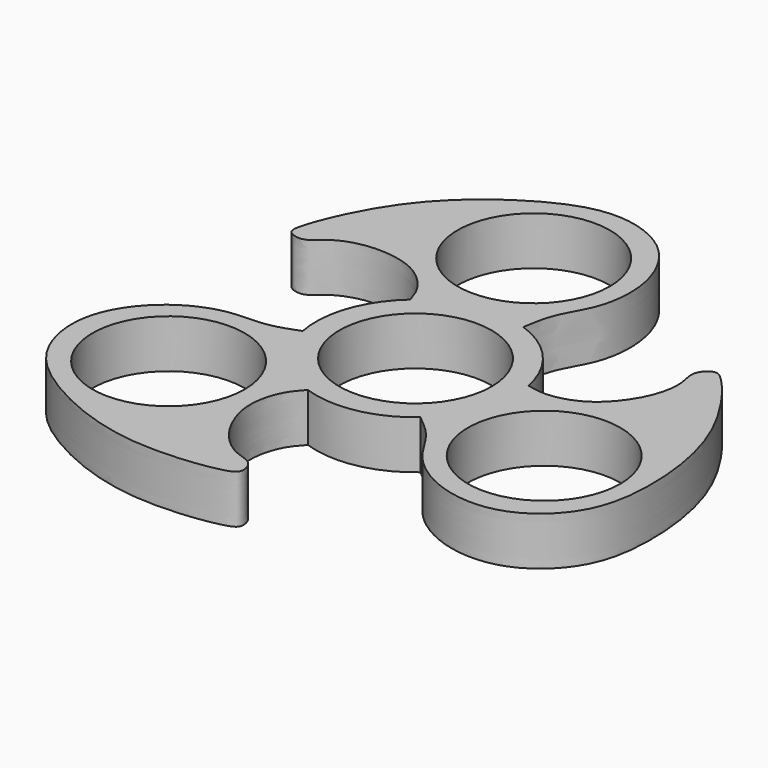
from build123d import *

# Parameters (mm, degrees)
F0_R     = 11
F1_DEPTH = 7
F2_COUNT = 3


with BuildPart() as f1:
    # F0 (on Top) → F1 (new body)
    with BuildSketch(Plane.XY):
        with BuildLine():
            ThreePointArc((9.4140508604, -10.8749026982), (13.0823502456, -5.9782919259), (14.3835969875, 0))
            ThreePointArc((14.3835969875, 0), (14.3174201784, 1.3781660758), (14.1194986908, 2.7436506738))
            ThreePointArc((14.1194986908, 2.7436506738), (-13.594971041, 4.6972997235), (9.4140508604, -10.8749026982))
        make_face()
        Circle(F0_R, mode=Mode.SUBTRACT)
        with BuildLine():
            ThreePointArc((14.1194986908, 2.7436506738), (14.3174201784, 1.3781660758), (14.3835969875, 0))
            ThreePointArc((14.3835969875, 0), (13.0823502456, -5.9782919259), (9.4140508604, -10.8749026982))
            add(Edge.make_bspline(
                [(14.1194986908, 2.7436506738), (15.0484566992, 2.5457409858), (17.114573098, 2.1009446406), (21.6734644854, 3.3334805226), (24.8661399681, 6.6023260632), (26.8244992271, 10.1541511096), (27.4599044336, 14.0580551407), (26.3268108082, 16.8833843476), (28.3128644981, 18.8423275341), (30.3298716366, 17.7771183516), (38.5113185361, 7.2062287012), (40.6454224781, -7.2370610169), (38.9577533171, -17.5716720794), (31.2026029382, -24.1190616788), (21.8633834336, -23.4625176495), (15.431683765, -18.9362512131), (13.0822714541, -13.8555959558), (10.6013857244, -11.8388336854), (9.4140508604, -10.8749026982)],
                knots=[0, 0, 0, 0, 0.0452325529, 0.1009349294, 0.1565928987, 0.209327921, 0.2608033673, 0.304780938, 0.3425327627, 0.3762691085, 0.46950766, 0.5717649415, 0.6543371701, 0.7332139413, 0.810953491, 0.882870668, 0.9438250252, 1, 1, 1, 1], degree=3))
        make_face()
        with Locations((26.196686551, -9.5008192584)):
            Circle(F0_R, mode=Mode.SUBTRACT)
    extrude(amount=F1_DEPTH)

    # F2: F1 ×3 about axis
    f2_axis = Axis((0, 0, 0), (0, 0, 1))


with BuildPart() as f1_1:
    add(f1.part)
    for i in range(1, F2_COUNT):
        add(f1.part.rotate(f2_axis, i * 360 / F2_COUNT))


solid = f1_1.part
